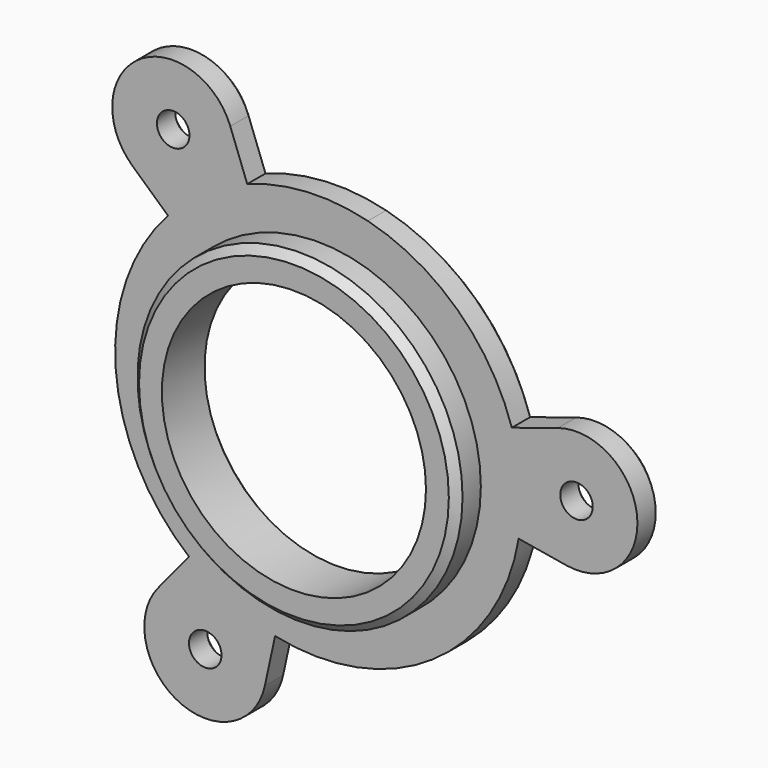
from build123d import *

# Parameters (mm, degrees)
SKETCH004_R           = 13
SKETCH004_R_2         = 1.6
PAD001_DEPTH          = 3
POLARPATTERN001_COUNT = 3
SKETCH005_R           = 16
SKETCH005_R_2         = 13
PAD002_DEPTH          = 3
CHAMFER003_SIZE       = 0.75


with BuildPart() as part:
    # Sketch004 (on Face1 of Binder001) → Pad001 (new body)
    with BuildSketch(Plane.XZ.offset(-1.75)):
        with BuildLine():
            ThreePointArc((19.050853, 6.088102), (-19.94876, -1.430732), (19.724681, -3.307108))
            Line((24.422075, -4.094689), (19.724681, -3.307108))
            ThreePointArc((24.422075, -4.094689), (31.398835, 2.251935), (23.587776, 7.537972))
            Line((23.587776, 7.537972), (19.050853, 6.088102))
        make_face()
        Circle(SKETCH004_R, mode=Mode.SUBTRACT)
        with Locations((25.414207, 1.822716)):
            Circle(SKETCH004_R_2, mode=Mode.SUBTRACT)
    pad001 = extrude(amount=PAD001_DEPTH)

    # PolarPattern001: Pad001 ×3 about axis
    polarpattern001_axis = Axis((0, 1.75, 0), (0, -1, 0))
    for i in range(1, POLARPATTERN001_COUNT):
        add(pad001.rotate(polarpattern001_axis, i * 360 / POLARPATTERN001_COUNT))

    # Sketch005 (on Face17 of PolarPattern001) → Pad002 (join)
    with BuildSketch(Plane.XZ.offset(1.25)):
        Circle(SKETCH005_R)
        Circle(SKETCH005_R_2, mode=Mode.SUBTRACT)
    extrude(amount=PAD002_DEPTH)

    # Chamfer003
    chamfer003_edges = [part.edges().sort_by_distance(p)[0] for p in [
        (-16, -4.25, 0),
        (31.398835, 1.75, 2.251935),
        (22.073378, 1.75, -3.700898),
        (11.21343, 1.75, -16.560767),
        (-4.759394, 1.75, -21.869587),
        (-13.749184, 1.75, -28.318156),
        (-14.241761, 1.75, -17.265657),
        (-19.94876, 1.75, -1.430732),
        (-16.55992, 1.75, 15.05655),
        (-17.64965, 1.75, 26.066221),
        (-7.831617, 1.75, 20.966555),
        (8.73533, 1.75, 17.991498),
        (21.319315, 1.75, 6.813037),
        (6.5, 1.75, 11.25833),
        (-13, 1.75, 0),
        (6.5, 1.75, -11.25833),
        (23.814207, 1.75, 1.822716),
        (-13.485622, 1.75, 19.71235),
        (-10.328585, 1.75, -21.535066),
    ]]
    chamfer(chamfer003_edges, length=CHAMFER003_SIZE)


solid = part.part
